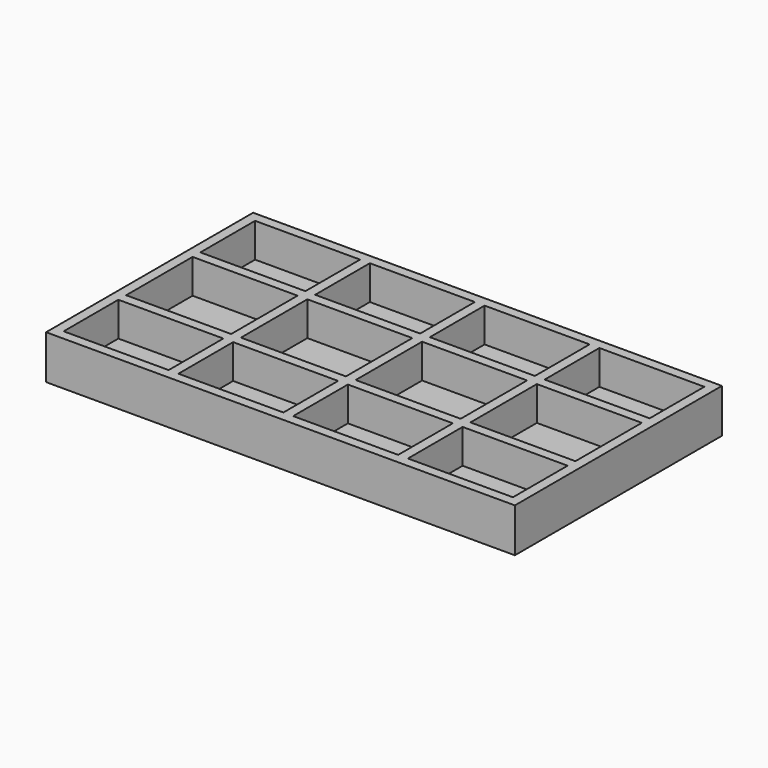
from build123d import *

# Parameters (mm, degrees)
F0_W     = 2438.4
F0_H     = 1346.2
F1_DEPTH = 50.8
F2_W     = 546.1
F2_H     = 355.6
F2_H_2   = 431.8
F3_DEPTH = 177.8


with BuildPart() as f1:
    # F0 (on Top) → F1 (new body)
    with BuildSketch(Plane.XY):
        with Locations((0, 673.1)):
            Rectangle(F0_W, F0_H)
    extrude(amount=F1_DEPTH)

    # F2 (on face) → F3 (join)
    with BuildSketch(Plane.XY.offset(50.8)):
        Polygon((-1219.2, 457.2), (-1219.2, 406.4), (-1219.2, 50.8), (-1219.2, 0), (-1168.4, 0), (-622.3, 0), (-571.5, 0), (-25.4, 0), (25.4, 0), (571.5, 0), (622.3, 0), (1168.4, 0), (1219.2, 0), (1219.2, 50.8), (1219.2, 406.4), (1219.2, 457.2), (1219.2, 889), (1219.2, 939.8), (1219.2, 1295.4), (1219.2, 1346.2), (1168.4, 1346.2), (622.3, 1346.2), (571.5, 1346.2), (25.4, 1346.2), (-25.4, 1346.2), (-571.5, 1346.2), (-622.3, 1346.2), (-1168.4, 1346.2), (-1219.2, 1346.2), (-1219.2, 1295.4), (-1219.2, 939.8), (-1219.2, 889), align=None)
        with Locations((-895.35, 228.6)):
            Rectangle(F2_W, F2_H, mode=Mode.SUBTRACT)
        with Locations((-298.45, 228.6)):
            Rectangle(F2_W, F2_H, mode=Mode.SUBTRACT)
        with Locations((298.45, 228.6)):
            Rectangle(F2_W, F2_H, mode=Mode.SUBTRACT)
        with Locations((895.35, 228.6)):
            Rectangle(F2_W, F2_H, mode=Mode.SUBTRACT)
        with Locations((-895.35, 673.1)):
            Rectangle(F2_W, F2_H_2, mode=Mode.SUBTRACT)
        with Locations((-298.45, 673.1)):
            Rectangle(F2_W, F2_H_2, mode=Mode.SUBTRACT)
        with Locations((-895.35, 1117.6)):
            Rectangle(F2_W, F2_H, mode=Mode.SUBTRACT)
        with Locations((-298.45, 1117.6)):
            Rectangle(F2_W, F2_H, mode=Mode.SUBTRACT)
        with Locations((298.45, 673.1)):
            Rectangle(F2_W, F2_H_2, mode=Mode.SUBTRACT)
        with Locations((895.35, 673.1)):
            Rectangle(F2_W, F2_H_2, mode=Mode.SUBTRACT)
        with Locations((298.45, 1117.6)):
            Rectangle(F2_W, F2_H, mode=Mode.SUBTRACT)
        with Locations((895.35, 1117.6)):
            Rectangle(F2_W, F2_H, mode=Mode.SUBTRACT)
    extrude(amount=F3_DEPTH)


solid = f1.part
